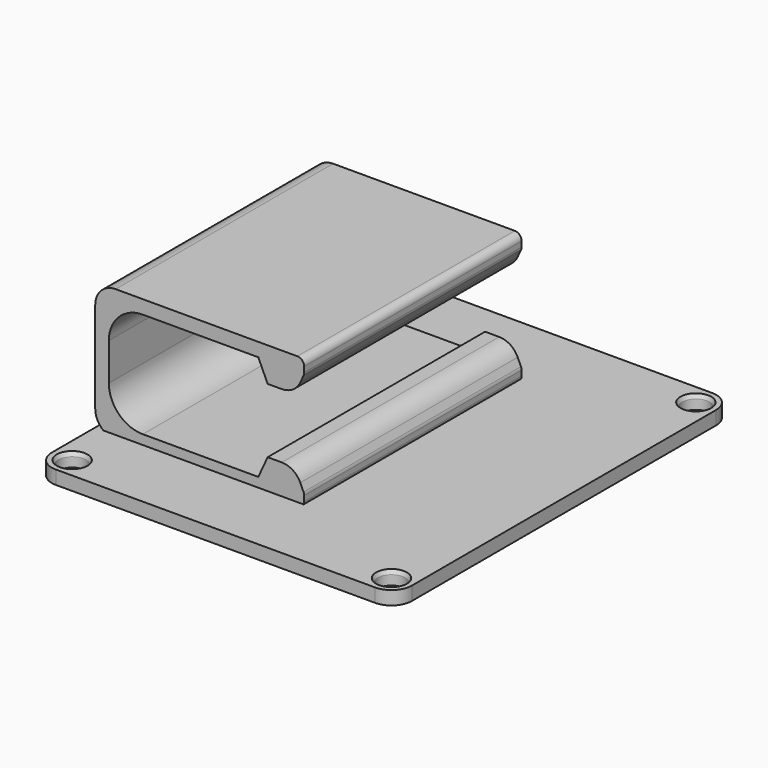
from build123d import *

# Parameters (mm, degrees)
CYLINDER017_R             = 2
CYLINDER017_DEPTH         = 9.2
CYLINDER018_R             = 3.5
CYLINDER018_DEPTH         = 10
CYLINDER016_R             = 2
CYLINDER016_DEPTH         = 9.2
CYLINDER019_R             = 3.5
CYLINDER019_DEPTH         = 10
CYLINDER014_R             = 2
CYLINDER014_DEPTH         = 9.2
CYLINDER015_R             = 3.5
CYLINDER015_DEPTH         = 10
CYLINDER013_R             = 2
CYLINDER013_DEPTH         = 9.2
CYLINDER012_R             = 3.5
CYLINDER012_DEPTH         = 10
BOX_W                     = 53
BOX_H                     = 62
BOX_DEPTH                 = 2
FILLET001_R               = 3
PAD003_DEPTH              = 40
FILLET004_R               = 3
FILLET005_R               = 1
FILLET002_R               = 5
FILLET003_R               = 3
FILLET003_PLACEMENT_ANGLE = 90


with BuildPart() as pass_screw_thread003:
    # Cylinder017 → Cylinder017 (new body)
    with BuildSketch(Plane.XY.offset(-9.2)):
        Circle(CYLINDER017_R)
    extrude(amount=CYLINDER017_DEPTH)


with BuildPart() as pass_screw_head003:
    # Cone007 → Cone007 (revolve)
    with BuildSketch(Plane.XZ):
        Polygon((0, 0), (2, 0), (3.5, 3.4), (0, 3.4), align=None)
    revolve(axis=Axis((0, 0, 0), (0, 0, 1)))


with BuildPart() as pass_screw003:
    # Cylinder018 → Cylinder018 (new body)
    with BuildSketch(Plane.XY.offset(3.2)):
        Circle(CYLINDER018_R)
    extrude(amount=CYLINDER018_DEPTH)

    # Fusion016: union pass-screw-thread003, pass-screw-head003
    add(pass_screw_thread003.part)
    add(pass_screw_head003.part)


with BuildPart() as pass_screw003_1:
    # Fusion016 placement: moved
    add(pass_screw003.part.moved(Location((42, 0, 18))))


with BuildPart() as pass_screw_thread002:
    # Cylinder016 → Cylinder016 (new body)
    with BuildSketch(Plane.XY.offset(-9.2)):
        Circle(CYLINDER016_R)
    extrude(amount=CYLINDER016_DEPTH)


with BuildPart() as pass_screw_head002:
    # Cone006 → Cone006 (revolve)
    with BuildSketch(Plane.XZ):
        Polygon((0, 0), (2, 0), (3.5, 3.4), (0, 3.4), align=None)
    revolve(axis=Axis((0, 0, 0), (0, 0, 1)))


with BuildPart() as pass_screw_top:
    # Cylinder019 → Cylinder019 (new body)
    with BuildSketch(Plane.XY.offset(3.2)):
        Circle(CYLINDER019_R)
    extrude(amount=CYLINDER019_DEPTH)

    # Fusion015: union pass-screw-thread002, pass-screw-head002
    add(pass_screw_thread002.part)
    add(pass_screw_head002.part)


with BuildPart() as pass_screw_top_1:
    # Fusion015 placement: moved
    add(pass_screw_top.part.moved(Location((-5, 0, 18))))

    # Fusion017: union pass-screw003
    add(pass_screw003_1.part)


with BuildPart() as pass_screw_top_2:
    # Fusion017 placement: moved
    add(pass_screw_top_1.part.moved(Location((0, 56, 0))))


with BuildPart() as pass_screw_thread001:
    # Cylinder014 → Cylinder014 (new body)
    with BuildSketch(Plane.XY.offset(-9.2)):
        Circle(CYLINDER014_R)
    extrude(amount=CYLINDER014_DEPTH)


with BuildPart() as pass_screw_head001:
    # Cone005 → Cone005 (revolve)
    with BuildSketch(Plane.XZ):
        Polygon((0, 0), (2, 0), (3.5, 3.4), (0, 3.4), align=None)
    revolve(axis=Axis((0, 0, 0), (0, 0, 1)))


with BuildPart() as pass_screw001:
    # Cylinder015 → Cylinder015 (new body)
    with BuildSketch(Plane.XY.offset(3.2)):
        Circle(CYLINDER015_R)
    extrude(amount=CYLINDER015_DEPTH)

    # Fusion013: union pass-screw-thread001, pass-screw-head001
    add(pass_screw_thread001.part)
    add(pass_screw_head001.part)


with BuildPart() as pass_screw001_1:
    # Fusion013 placement: moved
    add(pass_screw001.part.moved(Location((42, 0, 18))))


with BuildPart() as pass_screw_thread:
    # Cylinder013 → Cylinder013 (new body)
    with BuildSketch(Plane.XY.offset(-9.2)):
        Circle(CYLINDER013_R)
    extrude(amount=CYLINDER013_DEPTH)


with BuildPart() as pass_screw_head:
    # Cone → Cone (revolve)
    with BuildSketch(Plane.XZ):
        Polygon((0, 0), (2, 0), (3.5, 3.4), (0, 3.4), align=None)
    revolve(axis=Axis((0, 0, 0), (0, 0, 1)))


with BuildPart() as fusion018:
    # Cylinder012 → Cylinder012 (new body)
    with BuildSketch(Plane.XY.offset(3.2)):
        Circle(CYLINDER012_R)
    extrude(amount=CYLINDER012_DEPTH)

    # Fusion012: union pass-screw-thread, pass-screw-head
    add(pass_screw_thread.part)
    add(pass_screw_head.part)


with BuildPart() as fusion018_1:
    # Fusion012 placement: moved
    add(fusion018.part.moved(Location((-5, 0, 18))))

    # Fusion014: union pass-screw001
    add(pass_screw001_1.part)

    # Fusion018: union pass-screw-top
    add(pass_screw_top_2.part)


with BuildPart() as top_plate_with_screws:
    # Box → Box (new body)
    with BuildSketch(Plane(origin=(-8, -3, 16.6), x_dir=(1, 0, 0), z_dir=(0, 0, 1))):
        with Locations((26.5, 31)):
            Rectangle(BOX_W, BOX_H)
    extrude(amount=BOX_DEPTH)

    # Fillet001
    fillet001_edges = [top_plate_with_screws.edges().sort_by_distance(p)[0] for p in [
        (-8, -3, 17.6),
        (-8, 59, 17.6),
        (45, -3, 17.6),
        (45, 59, 17.6),
    ]]
    fillet(fillet001_edges, radius=FILLET001_R)

    # Cut002: cut Fusion018
    add(fusion018_1.part, mode=Mode.SUBTRACT)


with BuildPart() as final_top_plate_with_clip:
    # Sketch003 → Pad003 (new body)
    with BuildSketch(Plane.XY):
        Polygon((0, 0), (30.749545, 0), (30.749545, 2), (29.374773, 5), (25.374773, 5), (24, 2), (2, 2), (2, 17.5), (24, 17.5), (25.374773, 14.5), (29.374773, 14.5), (30.749545, 17.5), (30.749545, 19.5), (0, 19.5), align=None)
    extrude(amount=PAD003_DEPTH)

    # Fillet004
    fillet004_edges = [final_top_plate_with_clip.edges().sort_by_distance(p)[0] for p in [
        (29.374773, 5, 20),
        (29.374773, 14.5, 20),
    ]]
    fillet(fillet004_edges, radius=FILLET004_R)

    # Fillet005
    fillet005_edges = [final_top_plate_with_clip.edges().sort_by_distance(p)[0] for p in [
        (30.749545, 2, 20),
        (30.749545, 0, 20),
        (30.749545, 19.5, 20),
        (30.749545, 17.5, 20),
    ]]
    fillet(fillet005_edges, radius=FILLET005_R)

    # Fillet002
    fillet002_edges = [final_top_plate_with_clip.edges().sort_by_distance(p)[0] for p in [
        (2, 2, 20),
        (2, 17.5, 20),
    ]]
    fillet(fillet002_edges, radius=FILLET002_R)

    # Fillet003
    fillet003_edges = [final_top_plate_with_clip.edges().sort_by_distance(p)[0] for p in [
        (0, 0, 20),
        (0, 19.5, 20),
    ]]
    fillet(fillet003_edges, radius=FILLET003_R)


with BuildPart() as final_top_plate_with_clip_1:
    # Fillet003 placement: moved
    add(final_top_plate_with_clip.part.moved(Location((-8, 48, 18))).rotate(Axis((-8, 48, 18), (1, 0, 0)), FILLET003_PLACEMENT_ANGLE))

    # Fusion019: union top-plate-with-screws
    add(top_plate_with_screws.part)


with BuildPart() as final_top_plate_with_clip_2:
    # Fusion019 placement: moved
    add(final_top_plate_with_clip_1.part.moved(Location((-37, 0, -16.6))))


solid = final_top_plate_with_clip_2.part
